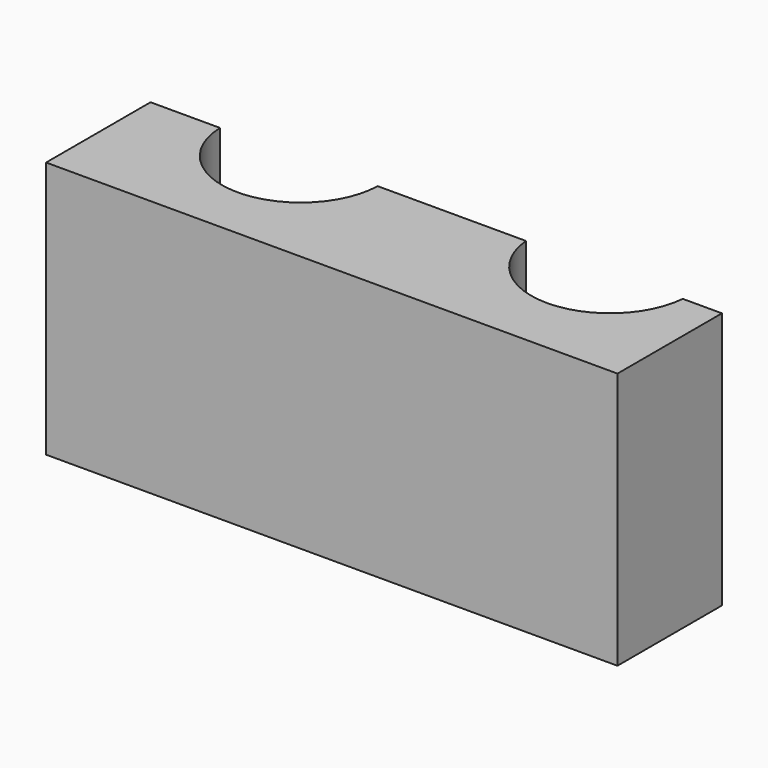
from build123d import *

# Parameters (mm, degrees)
F1_DEPTH = 12.7


with BuildPart() as f1:
    # F0 (on Top) → F1 (new body)
    with BuildSketch(Plane.XY):
        with BuildLine():
            Line((-11.216301, 6.446693), (-11.216301, 0))
            Line((-11.216301, 0), (16.996317, 0))
            Line((16.996317, 0), (16.996317, 6.446693))
            Line((16.996317, 6.446693), (15.065662, 6.446693))
            ThreePointArc((15.065662, 6.446693), (11.193809, 2.90156), (7.321957, 6.446693))
            Line((7.321957, 6.446693), (0, 6.446693))
            ThreePointArc((0, 6.446693), (-3.892248, 2.668559), (-7.784497, 6.446693))
            Line((-7.784497, 6.446693), (-11.216301, 6.446693))
        make_face()
    extrude(amount=F1_DEPTH)


solid = f1.part
